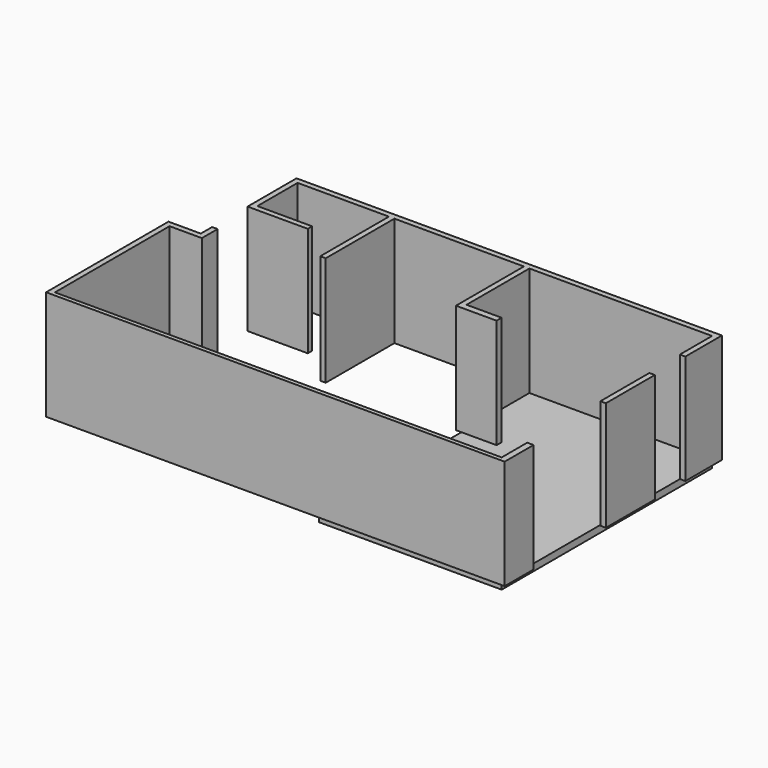
from build123d import *

# Parameters (mm, degrees)
F1_W     = 120
F1_H     = 1340
F2_DEPTH = 2400
F4_DEPTH = 150


with BuildPart() as f2:
    # F1 (on Top) → F2 (new body)
    with BuildSketch(Plane.XY):
        Polygon((11380, -1840), (11380, -120), (15380, -120), (15380, -1000), (15500, -1000), (15500, 0), (6184.715195, 0), (6184.715195, -1340), (7504.715195, -1340), (7504.715195, -1220), (6304.715195, -1220), (6304.715195, -120), (8304.715195, -120), (8304.715195, -2000), (8424.715195, -2000), (8424.715195, -120), (11260, -120), (11260, -1980), (12150, -1980), (12150, -1840), align=None)
        with Locations((15458.585205, -2530)):
            Rectangle(F1_W, F1_H)
        Polygon((15518.585205, -5970), (15518.585205, -5180), (15380.246162, -5180), (15380.246162, -5878.899937), (5597.076817, -5878.899937), (5597.076817, -2740), (6304.715195, -2740), (6304.715195, -2310), (6184.715195, -2310), (6184.715195, -2620), (5477.076817, -2620), (5477.076817, -5970), align=None)
    extrude(amount=F2_DEPTH)


with BuildPart() as f4:
    # F3 (on Top) → F4 (new body)
    with BuildSketch(Plane.XY):
        Polygon((15380, -120), (11380, -120), (11380, -5878.899937), (15380.246162, -5878.899937), align=None)
    extrude(amount=-F4_DEPTH)


solid = Compound([f2.part, f4.part])
